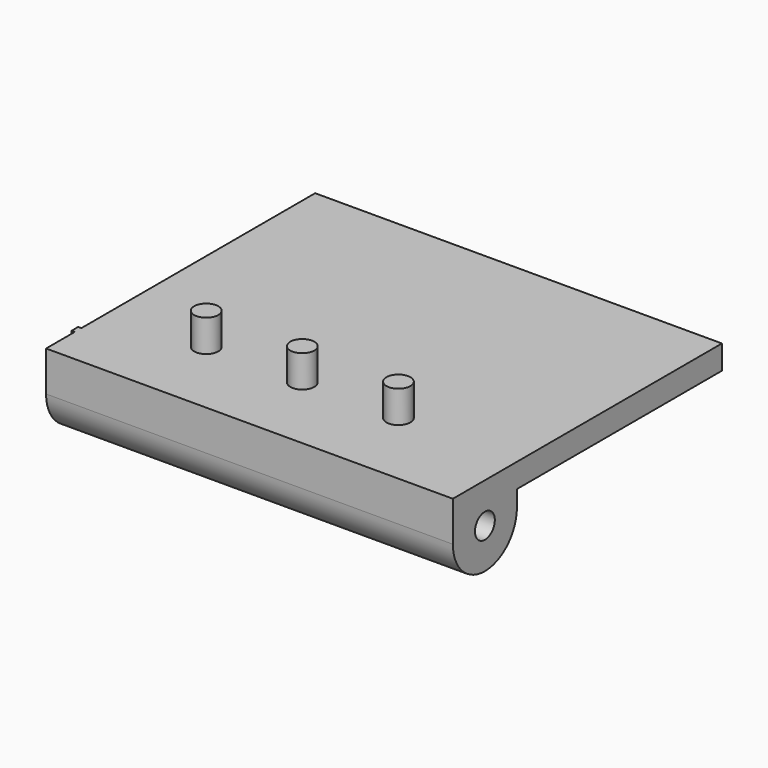
from build123d import *

# Parameters (mm, degrees)
CYLINDER004_R           = 1.5
CYLINDER004_DEPTH       = 4
CYLINDER005_R           = 1.5
CYLINDER005_DEPTH       = 4
CYLINDER006_R           = 1.5
CYLINDER006_DEPTH       = 4
CYLINDER002_R           = 1.25
CYLINDER002_DEPTH       = 10
CYLINDER002_PITCH_ANGLE = 90
CYLINDER001_R           = 1.55
CYLINDER001_DEPTH       = 50.8
CYLINDER001_PITCH_ANGLE = 90
CYLINDER003_R           = 6
CYLINDER003_DEPTH       = 8
CYLINDER003_PITCH_ANGLE = 90
BOX005_W                = 12
BOX005_H                = 18
BOX005_DEPTH            = 3
BOX004_W                = 8
BOX004_H                = 50
BOX004_DEPTH            = 2.5
BOX003_W                = 12
BOX003_H                = 37
BOX003_DEPTH            = 10
BOX002_W                = 0.4
BOX002_H                = 1
BOX002_DEPTH            = 10
BOX001_W                = 50.8
BOX001_H                = 10
BOX001_DEPTH            = 2
CYLINDER_R              = 5
CYLINDER_DEPTH          = 50.8
CYLINDER_PITCH_ANGLE    = 90
BOX_W                   = 50.8
BOX_H                   = 42
BOX_DEPTH               = 3


with BuildPart() as cylinder004:
    # Cylinder004 → Cylinder004 (new body)
    with BuildSketch(Plane(origin=(12, 10, 3), x_dir=(1, 0, 0), z_dir=(0, 0, 1))):
        Circle(CYLINDER004_R)
    extrude(amount=CYLINDER004_DEPTH)


with BuildPart() as cylinder005:
    # Cylinder005 → Cylinder005 (new body)
    with BuildSketch(Plane(origin=(24, 10, 3), x_dir=(1, 0, 0), z_dir=(0, 0, 1))):
        Circle(CYLINDER005_R)
    extrude(amount=CYLINDER005_DEPTH)


with BuildPart() as cylinder006:
    # Cylinder006 → Cylinder006 (new body)
    with BuildSketch(Plane(origin=(36, 10, 3), x_dir=(1, 0, 0), z_dir=(0, 0, 1))):
        Circle(CYLINDER006_R)
    extrude(amount=CYLINDER006_DEPTH)


with BuildPart() as cylinder002:
    # Cylinder002 → Cylinder002 (new body)
    with BuildSketch(Plane.XY):
        Circle(CYLINDER002_R)
    extrude(amount=CYLINDER002_DEPTH)


with BuildPart() as cylinder002_1:
    # Cylinder002 pitch: moved
    add(cylinder002.part.rotate(Axis((0, 0, 0), (0, 1, 0)), CYLINDER002_PITCH_ANGLE))


with BuildPart() as cylinder002_2:
    # Cylinder002 placement: moved
    add(cylinder002_1.part.moved(Location((-1, 5, -2))))


with BuildPart() as cylinder001:
    # Cylinder001 → Cylinder001 (new body)
    with BuildSketch(Plane.XY):
        Circle(CYLINDER001_R)
    extrude(amount=CYLINDER001_DEPTH)


with BuildPart() as cylinder001_1:
    # Cylinder001 pitch: moved
    add(cylinder001.part.rotate(Axis((0, 0, 0), (0, 1, 0)), CYLINDER001_PITCH_ANGLE))


with BuildPart() as cylinder001_2:
    # Cylinder001 placement: moved
    add(cylinder001_1.part.moved(Location((3, 5, -2))))


with BuildPart() as cylinder003:
    # Cylinder003 → Cylinder003 (new body)
    with BuildSketch(Plane.XY):
        Circle(CYLINDER003_R)
    extrude(amount=CYLINDER003_DEPTH)


with BuildPart() as cylinder003_1:
    # Cylinder003 pitch: moved
    add(cylinder003.part.rotate(Axis((0, 0, 0), (0, 1, 0)), CYLINDER003_PITCH_ANGLE))


with BuildPart() as cylinder003_2:
    # Cylinder003 placement: moved
    add(cylinder003_1.part.moved(Location((24, 5, -2))))


with BuildPart() as cube005:
    # Box005 → Box005 (new body)
    with BuildSketch(Plane(origin=(22, 25, -7), x_dir=(1, 0, 0), z_dir=(0, 0, 1))):
        with Locations((6, 9)):
            Rectangle(BOX005_W, BOX005_H)
    extrude(amount=BOX005_DEPTH)


with BuildPart() as cube004:
    # Box004 → Box004 (new body)
    with BuildSketch(Plane(origin=(24, 10, -4.5), x_dir=(1, 0, 0), z_dir=(0, 0, 1))):
        with Locations((4, 25)):
            Rectangle(BOX004_W, BOX004_H)
    extrude(amount=BOX004_DEPTH)


with BuildPart() as cut002:
    # Box003 → Box003 (new body)
    with BuildSketch(Plane(origin=(22, 5, -7), x_dir=(1, 0, 0), z_dir=(0, 0, 1))):
        with Locations((6, 18.5)):
            Rectangle(BOX003_W, BOX003_H)
    extrude(amount=BOX003_DEPTH)

    # Cut: cut Cube004
    add(cube004.part, mode=Mode.SUBTRACT)

    # Cut001: cut Cube005
    add(cube005.part, mode=Mode.SUBTRACT)

    # Cut002: cut Cylinder003
    add(cylinder003_2.part, mode=Mode.SUBTRACT)


with BuildPart() as cube002:
    # Box002 → Box002 (new body)
    with BuildSketch(Plane(origin=(-0.4, 4.5, -7), x_dir=(1, 0, 0), z_dir=(0, 0, 1))):
        with Locations((0.2, 0.5)):
            Rectangle(BOX002_W, BOX002_H)
    extrude(amount=BOX002_DEPTH)


with BuildPart() as cube001:
    # Box001 → Box001 (new body)
    with BuildSketch(Plane.XY.offset(-2)):
        with Locations((25.4, 5)):
            Rectangle(BOX001_W, BOX001_H)
    extrude(amount=BOX001_DEPTH)


with BuildPart() as cylinder:
    # Cylinder → Cylinder (new body)
    with BuildSketch(Plane.XY):
        Circle(CYLINDER_R)
    extrude(amount=CYLINDER_DEPTH)


with BuildPart() as cylinder_1:
    # Cylinder pitch: moved
    add(cylinder.part.rotate(Axis((0, 0, 0), (0, 1, 0)), CYLINDER_PITCH_ANGLE))


with BuildPart() as cylinder_2:
    # Cylinder placement: moved
    add(cylinder_1.part.moved(Location((0, 5, -2))))


with BuildPart() as fusion003:
    # Box → Box (new body)
    with BuildSketch(Plane.XY):
        with Locations((25.4, 21)):
            Rectangle(BOX_W, BOX_H)
    extrude(amount=BOX_DEPTH)

    # Fusion: union Cube001, Cylinder
    add(cube001.part)
    add(cylinder_2.part)

    # Fusion001: union Cube002
    add(cube002.part)

    # Fusion002: union Cut002
    add(cut002.part)

    # Cut003: cut Cylinder001
    add(cylinder001_2.part, mode=Mode.SUBTRACT)

    # Cut004: cut Cylinder002
    add(cylinder002_2.part, mode=Mode.SUBTRACT)

    # Fusion003: union Cylinder004, Cylinder005, Cylinder006
    add(cylinder004.part)
    add(cylinder005.part)
    add(cylinder006.part)


solid = fusion003.part
